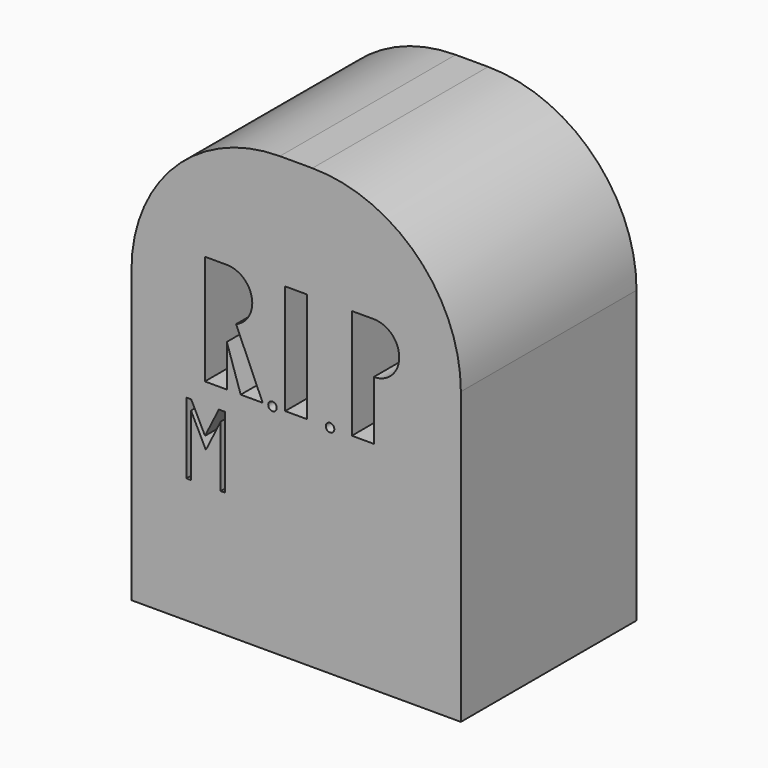
from build123d import *

# Parameters (mm, degrees)
F0_W      = 38.1
F0_H      = 25.4
F1_DEPTH  = 50.8
F2_R      = 17.169887
F4_DEPTH  = 12.7
F7_DEPTH  = 12.7
F9_DEPTH  = 12.7
F10_R     = 0.493061
F11_DEPTH = 12.7
F14_DEPTH = 12.7


with BuildPart() as f1:
    # F0 (on Top) → F1 (new body)
    with BuildSketch(Plane.XY):
        Rectangle(F0_W, F0_H)
    extrude(amount=F1_DEPTH)

    # F2
    f2_edges = [f1.edges().sort_by_distance(p)[0] for p in [
        (19.05, 0, 50.8),
        (-19.05, 0, 50.8),
    ]]
    fillet(f2_edges, radius=F2_R)

    # F3 (on face) → F4 (cut)
    with BuildSketch(Plane.XZ.offset(12.7)):
        Polygon((1.27, 25.041066), (1.27, 37.741066), (-1.27, 37.741066), (-1.27, 25.041066), (0, 25.041066), align=None)
    extrude(amount=-F4_DEPTH, mode=Mode.SUBTRACT)

    # F6 (on face) → F7 (cut)
    with BuildSketch(Plane.XZ.offset(12.7)):
        Polygon((6.439812, 37.741066), (6.439812, 25.041066), (8.979812, 25.041066), (8.979812, 31.852105), (8.979812, 37.741066), align=None)
        with BuildLine():
            ThreePointArc((8.979812, 31.852105), (11.924293, 34.796585), (8.979812, 37.741066))
            Line((8.979812, 37.741066), (8.979812, 31.852105))
        make_face()
    extrude(amount=-F7_DEPTH, mode=Mode.SUBTRACT)

    # F8 (on face) → F9 (cut)
    with BuildSketch(Plane.XZ.offset(12.7)):
        Polygon((-10.559579, 37.741066), (-10.559579, 25.041066), (-8.019579, 25.041066), (-8.019579, 29.893864), (-8.019579, 31.852105), (-8.019579, 37.741066), align=None)
        with BuildLine():
            Line((-8.019579, 31.852105), (-8.019579, 29.893864))
            Line((-8.019579, 29.893864), (-6.416946, 25.041066))
            Line((-6.416946, 25.041066), (-3.876946, 25.041066))
            Line((-3.876946, 25.041066), (-6.945879, 32.054846))
            ThreePointArc((-6.945879, 32.054846), (-7.473242, 31.903234), (-8.019579, 31.852105))
        make_face()
        with BuildLine():
            ThreePointArc((-6.945879, 32.054846), (-5.126227, 35.342922), (-8.019579, 37.741066))
            Line((-8.019579, 37.741066), (-8.019579, 31.852105))
            ThreePointArc((-8.019579, 31.852105), (-7.473242, 31.903234), (-6.945879, 32.054846))
        make_face()
    extrude(amount=-F9_DEPTH, mode=Mode.SUBTRACT)

    # F10 (on face) → F11 (cut)
    with BuildSketch(Plane.XZ.offset(12.7)):
        with Locations((-2.736643, 25.041066)):
            Circle(F10_R)
        with Locations((3.919682, 25.041066)):
            Circle(F10_R)
    extrude(amount=-F11_DEPTH, mode=Mode.SUBTRACT)

    # F13 (on face) → F14 (cut)
    with BuildSketch(Plane.XZ.offset(12.7)):
        Polygon((-12.685429, 22.705782), (-12.685429, 14.469298), (-12.164247, 14.469298), (-12.164247, 21.557376), (-10.444346, 18.105285), (-8.724445, 21.557376), (-8.724445, 14.469298), (-8.203262, 14.469298), (-8.203262, 22.705782), (-8.946966, 22.705782), (-10.543204, 19.501902), (-12.139441, 22.705782), align=None)
    extrude(amount=-F14_DEPTH, mode=Mode.SUBTRACT)


solid = f1.part
